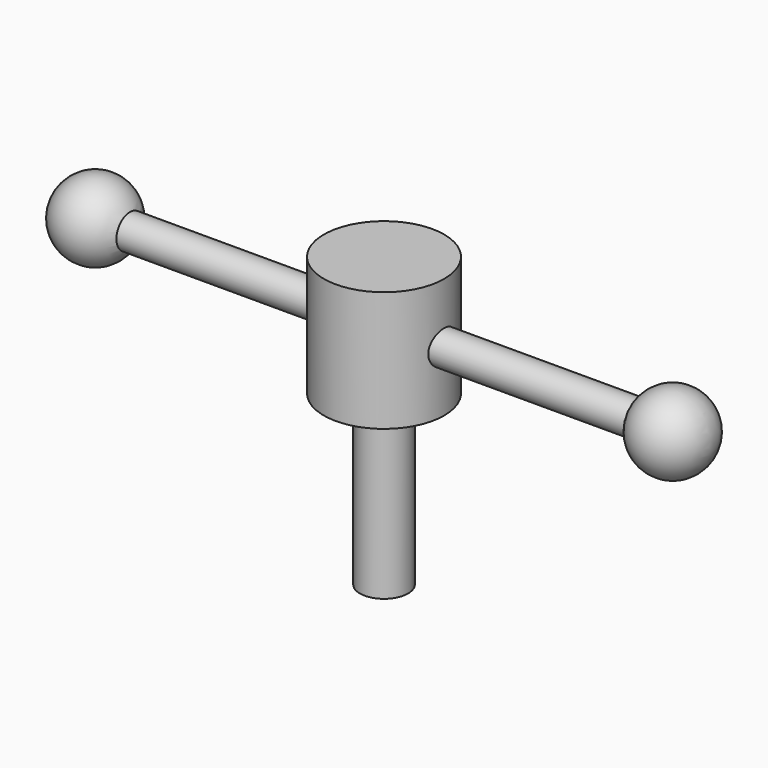
from build123d import *

# Parameters (mm, degrees)
F0_R     = 15.875
F0_R_2   = 6.35
F1_DEPTH = 31.75
F2_DEPTH = 44.45
F3_R     = 4.445
F4_DEPTH = 76.2


with BuildPart() as f1:
    # F0 (on Top) → F1 (new body)
    with BuildSketch(Plane.XY):
        Circle(F0_R)
        Circle(F0_R_2, mode=Mode.SUBTRACT)
        Circle(F0_R_2)
    extrude(amount=F1_DEPTH)

    # F0 (on Top) → F2 (join)
    with BuildSketch(Plane.XY):
        Circle(F0_R_2)
    extrude(amount=-F2_DEPTH)

    # F3 (on Right) → F4 (join, symmetric)
    with BuildSketch(Plane.YZ):
        with Locations((0, 15.875)):
            Circle(F3_R)
    extrude(amount=F4_DEPTH, both=True)

    # F5 (on Front) → F6 (revolve)
    with BuildSketch(Plane.XZ):
        with BuildLine():
            ThreePointArc((76.2, 5.715), (86.36, 15.875), (76.2, 26.035))
            Line((76.2, 26.035), (76.2, 5.715))
        make_face()
    revolve(axis=Axis((76.2, 0, 15.875), (0, 0, -1)))

    # F5 (on Front) → F7 (revolve)
    with BuildSketch(Plane.XZ):
        with BuildLine():
            Line((-76.2, 5.715), (-76.2, 26.035))
            ThreePointArc((-76.2, 26.035), (-86.36, 15.875), (-76.2, 5.715))
        make_face()
    revolve(axis=Axis((-76.2, 0, 15.875), (0, 0, -1)))


solid = f1.part
